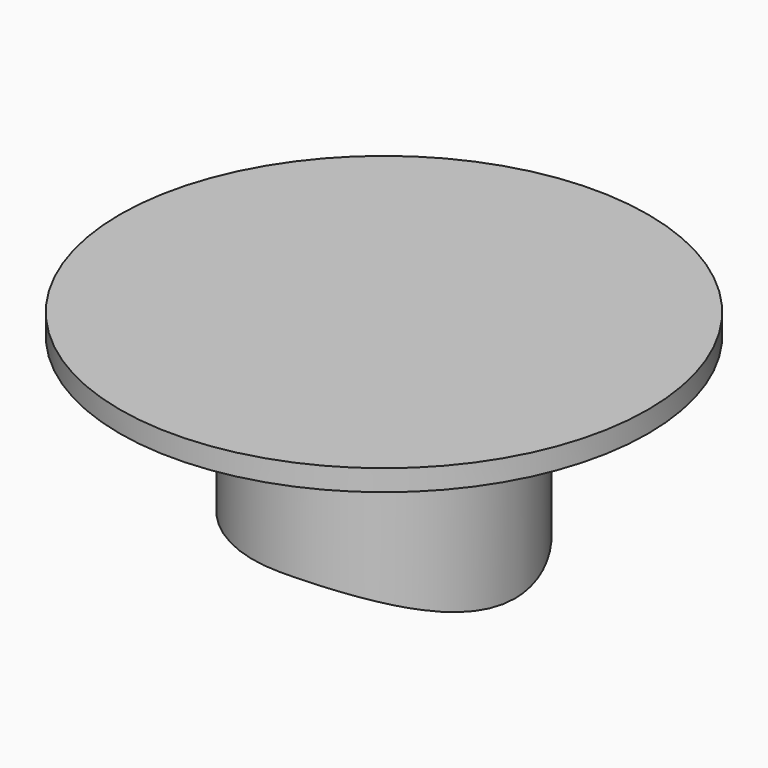
from build123d import *

# Parameters (mm, degrees)
F0_R           = 12.5
F1_DEPTH       = 1
F2_R           = 6.2
F3_DEPTH       = 10
F4_R           = 12.7
F5_DEPTH       = 25
F5_DEPTH_BACK  = 25
F7_R           = 2
F8_DEPTH       = 10
F9_W           = 9.563760832
F9_H           = 3.8901750788
F10_DEPTH      = 12.501
F10_DEPTH_BACK = 12.501


with BuildPart() as f1:
    # F0 (on Top) → F1 (new body)
    with BuildSketch(Plane.XY):
        Circle(F0_R)
    extrude(amount=F1_DEPTH)

    # F2 (on face) → F3 (join)
    with BuildSketch(Plane(origin=(0, 0, 0), x_dir=(1, 0, 0), z_dir=(0, 0, -1))):
        Circle(F2_R)
    extrude(amount=F3_DEPTH)

    # F4 (on Front) → F5 (cut, two sides)
    with BuildSketch(Plane.XZ) as f5_sk:
        with Locations((0, -20)):
            Circle(F4_R)
    extrude(amount=-F5_DEPTH, mode=Mode.SUBTRACT)
    extrude(f5_sk.sketch, amount=F5_DEPTH_BACK, mode=Mode.SUBTRACT)

    # F7 (on offset) → F8 (cut, through all)
    with BuildSketch(Plane.XY.offset(-10)):
        Circle(F7_R)
    extrude(amount=F8_DEPTH, mode=Mode.SUBTRACT)

    # F9 (on Front) → F10 (cut, two sides)
    with BuildSketch(Plane.XZ) as f10_sk:
        with Locations((-4.781880416, -9.2450875394)):
            Rectangle(F9_W, F9_H)
    extrude(amount=-F10_DEPTH, mode=Mode.SUBTRACT)
    extrude(f10_sk.sketch, amount=F10_DEPTH_BACK, mode=Mode.SUBTRACT)


solid = f1.part
